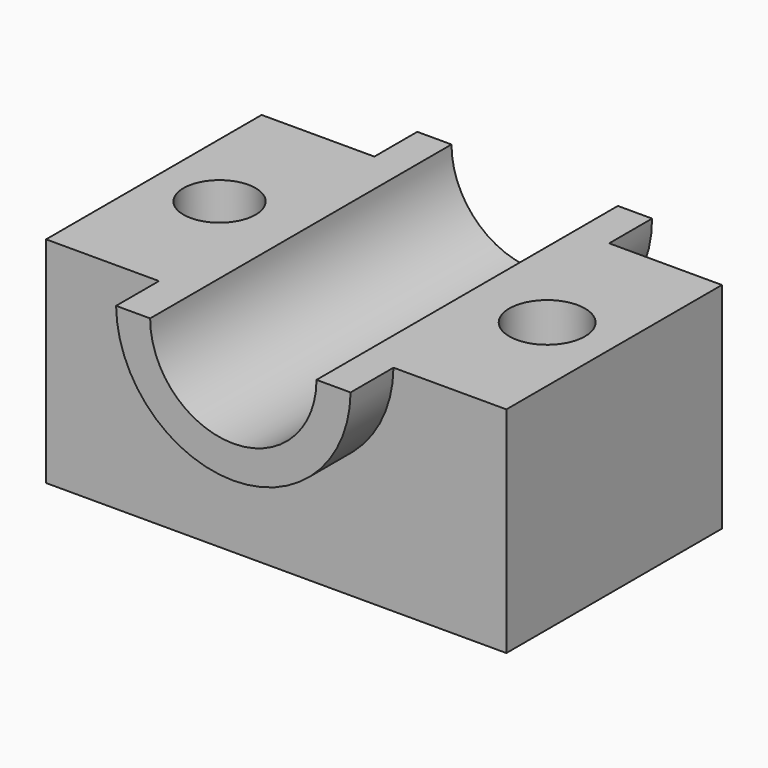
from build123d import *

# Parameters (mm, degrees)
F0_W      = 108.991236
F0_H      = 63.794724
F1_DEPTH  = 50.8
F4_DEPTH  = 89.916
F5_DEPTH  = 12.7
F7_DEPTH  = 12.7
F8_R      = 8.535678
F9_DEPTH  = 76.708
F10_R     = 8.962055
F11_DEPTH = 88.392


with BuildPart() as f1:
    # F0 (on Top) → F1 (new body)
    with BuildSketch(Plane.XY):
        Rectangle(F0_W, F0_H)
    extrude(amount=F1_DEPTH)

    # F2 (on face) → F4 (cut)
    with BuildSketch(Plane.XZ.offset(31.897362)):
        with BuildLine():
            Line((19.697172, 50.8), (-19.697172, 50.8))
            ThreePointArc((-19.697172, 50.8), (0, 31.102828), (19.697172, 50.8))
        make_face()
    extrude(amount=-F4_DEPTH, mode=Mode.SUBTRACT)

    # F3 (on face) → F5 (join)
    with BuildSketch(Plane.XZ.offset(31.897362)):
        with BuildLine():
            Line((-19.697172, 50.8), (-27.762748, 50.8))
            ThreePointArc((-27.762748, 50.8), (0, 23.38646), (27.762748, 50.8))
            Line((27.762748, 50.8), (19.697172, 50.8))
            ThreePointArc((19.697172, 50.8), (0, 31.102828), (-19.697172, 50.8))
        make_face()
    extrude(amount=F5_DEPTH)

    # F6 (on face) → F7 (join)
    with BuildSketch(Plane(origin=(0, 31.897362, 0), x_dir=(-1, 0, 0), z_dir=(0, 1, 0))):
        with BuildLine():
            ThreePointArc((-27.800228, 50.8), (0, 22.999772), (27.800228, 50.8))
            Line((27.800228, 50.8), (19.697172, 50.8))
            ThreePointArc((19.697172, 50.8), (0, 31.102828), (-19.697172, 50.8))
            Line((-19.697172, 50.8), (-27.800228, 50.8))
        make_face()
    extrude(amount=F7_DEPTH)

    # F8 (on face) → F9 (cut)
    with BuildSketch(Plane.XY.offset(50.8)):
        with Locations((-38.936164, 0)):
            Circle(F8_R)
    extrude(amount=-F9_DEPTH, mode=Mode.SUBTRACT)

    # F10 (on face) → F11 (cut)
    with BuildSketch(Plane.XY.offset(50.8)):
        with Locations((38.630784, 0)):
            Circle(F10_R)
    extrude(amount=-F11_DEPTH, mode=Mode.SUBTRACT)


solid = f1.part
